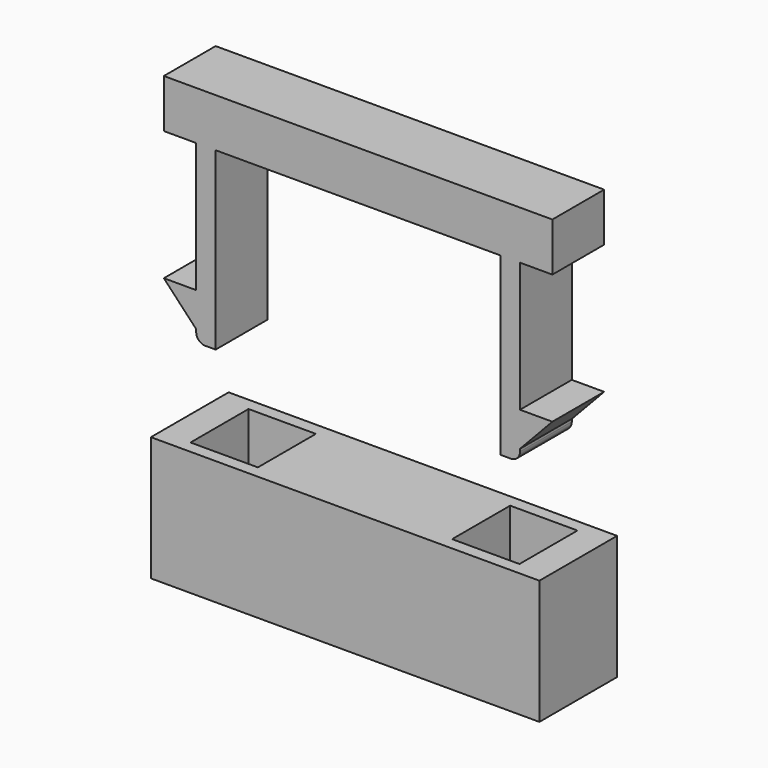
from build123d import *

# Parameters (mm, degrees)
F1_DEPTH = 3.175
F0_W     = 38.1
F0_H     = 12.192
F2_DEPTH = 4.7625
F3_W     = 6.604
F3_H     = 7.112
F4_DEPTH = 12.954


with BuildPart() as f1:
    # F0 (on Front) → F1 (new body, symmetric)
    with BuildSketch(Plane.XZ):
        with BuildLine():
            Line((0, 4.756242), (0, 0))
            Line((0, 0), (3.175, 0))
            Line((3.175, 0), (3.175, -12.7))
            Line((3.175, -12.7), (0, -12.7))
            Line((0, -12.7), (3.175, -16.071092))
            Line((3.175, -16.071092), (3.175, -16.325092))
            ThreePointArc((3.175, -16.325092), (3.435382, -16.95371), (4.064, -17.214092))
            Line((4.064, -17.214092), (5.08, -17.214092))
            Line((5.08, -17.214092), (5.08, 0))
            Line((5.08, 0), (33.02, 0))
            Line((33.02, 0), (33.02, -17.214092))
            Line((33.02, -17.214092), (34.036, -17.214092))
            ThreePointArc((34.036, -17.214092), (34.664618, -16.95371), (34.925, -16.325092))
            Line((34.925, -16.325092), (34.925, -16.071092))
            Line((34.925, -16.071092), (38.1, -12.7))
            Line((38.1, -12.7), (34.925, -12.7))
            Line((34.925, -12.7), (34.925, 0))
            Line((34.925, 0), (38.1, 0))
            Line((38.1, 0), (38.1, 4.756242))
            Line((38.1, 4.756242), (0, 4.756242))
        make_face()
    extrude(amount=F1_DEPTH, both=True)


with BuildPart() as f2:
    # F0 (on Front) → F2 (new body, symmetric)
    with BuildSketch(Plane.XZ):
        with Locations((19.05, -31.876074)):
            Rectangle(F0_W, F0_H)
    extrude(amount=F2_DEPTH, both=True)

    # F3 (on face) → F4 (cut)
    with BuildSketch(Plane(origin=(0, 0, -37.972074), x_dir=(1, 0, 0), z_dir=(0, 0, -1))):
        with Locations((6.223, 0)):
            Rectangle(F3_W, F3_H)
        with Locations((31.877, 0)):
            Rectangle(F3_W, F3_H)
    extrude(amount=-F4_DEPTH, mode=Mode.SUBTRACT)


solid = Compound([f1.part, f2.part])
